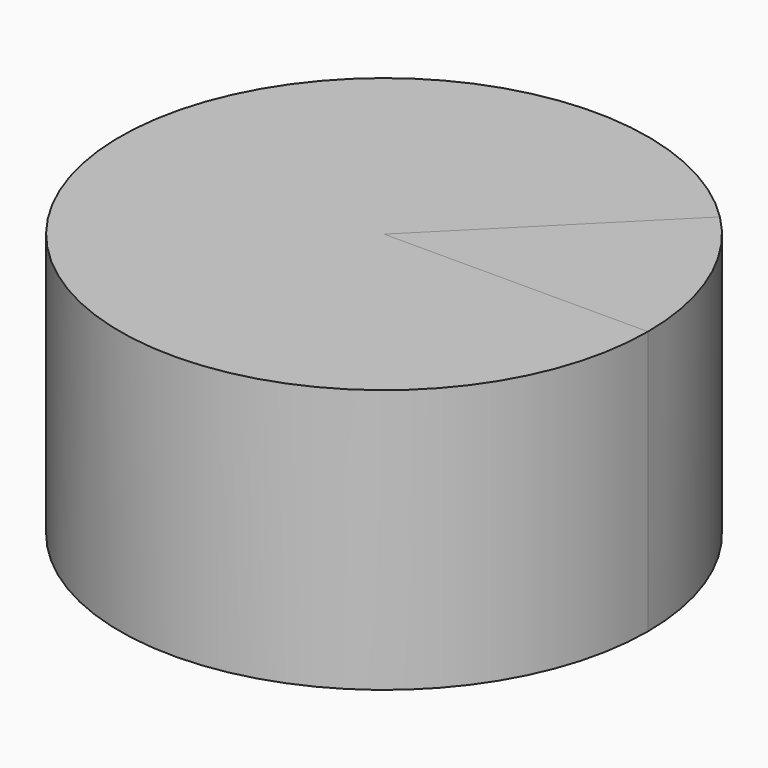
from build123d import *

# Parameters (mm, degrees)
CYLINDER_W               = 20
CYLINDER_H               = 20
CYLINDER_ANGLE           = 315
CYLINDER_PLACEMENT_ANGLE = 45
CYLINDER001_W            = 20
CYLINDER001_H            = 20
CYLINDER001_ANGLE        = 45


with BuildPart() as base:
    # Cylinder → Cylinder (revolve)
    with BuildSketch(Plane.XZ):
        with Locations((10, 10)):
            Rectangle(CYLINDER_W, CYLINDER_H)
    revolve(axis=Axis((0, 0, 0), (0, 0, 1)), revolution_arc=CYLINDER_ANGLE)


with BuildPart() as base_1:
    # Cylinder placement: moved
    add(base.part.rotate(Axis((0, 0, 0), (0, 0, 1)), CYLINDER_PLACEMENT_ANGLE))


with BuildPart() as obj1:
    # Cylinder001 → Cylinder001 (revolve)
    with BuildSketch(Plane.XZ):
        with Locations((10, 10)):
            Rectangle(CYLINDER001_W, CYLINDER001_H)
    revolve(axis=Axis((0, 0, 0), (0, 0, 1)), revolution_arc=CYLINDER001_ANGLE)


solid = Compound([base_1.part, obj1.part])
